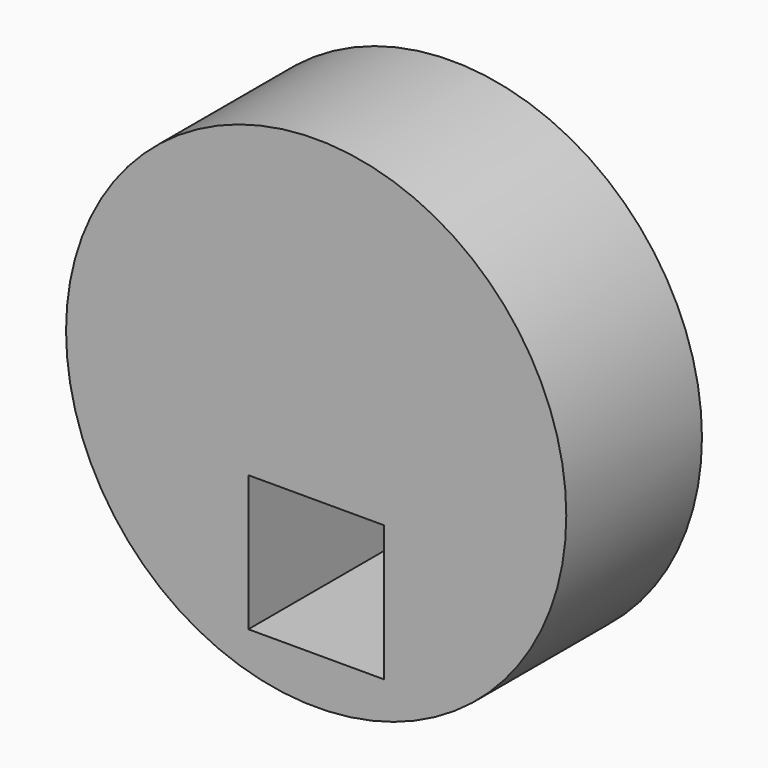
from build123d import *

# Parameters (mm, degrees)
F0_W     = 10.16
F0_H     = 10.16
F1_DEPTH = 12.7


with BuildPart() as f1:
    # F0 (on Front) → F1 (new body)
    with BuildSketch(Plane.XZ):
        with BuildLine():
            ThreePointArc((18.7325, 10.16), (0, 28.8925), (-18.7325, 10.16))
            Line((-18.7325, 10.16), (18.7325, 10.16))
        make_face()
        with BuildLine():
            Line((18.7325, 10.16), (-18.7325, 10.16))
            ThreePointArc((-18.7325, 10.16), (0, -8.5725), (18.7325, 10.16))
        make_face()
        Rectangle(F0_W, F0_H, mode=Mode.SUBTRACT)
    extrude(amount=F1_DEPTH)


solid = f1.part
